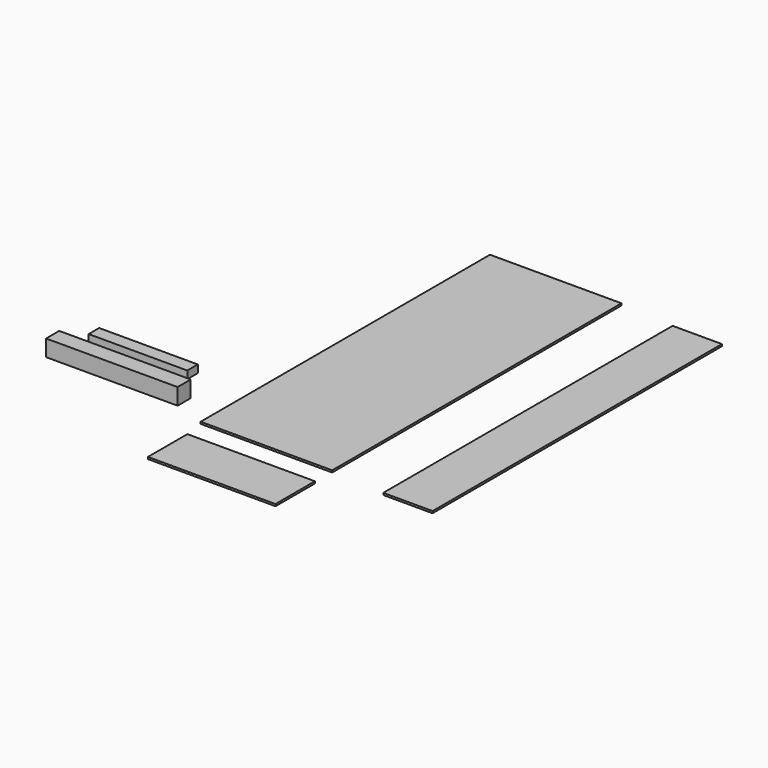
from build123d import *

# Parameters (mm, degrees)
F0_W     = 800
F0_H     = 2200
F2_DEPTH = 12
F1_W     = 300
F1_H     = 2200
F3_DEPTH = 12
F4_W     = 776
F4_H     = 300
F5_DEPTH = 12
F6_W     = 800
F6_H     = 100
F7_DEPTH = 100
F8_W     = 600
F8_H     = 80
F9_DEPTH = 47


with BuildPart() as f2:
    # F0 (on Top) → F2 (new body)
    with BuildSketch(Plane.XY):
        with Locations((-518.132778, 1021.973884)):
            Rectangle(F0_W, F0_H)
    extrude(amount=F2_DEPTH)


with BuildPart() as f3:
    # F1 (on Top) → F3 (new body)
    with BuildSketch(Plane.XY):
        with Locations((366.242298, 992.681062)):
            Rectangle(F1_W, F1_H)
    extrude(amount=F3_DEPTH)


with BuildPart() as f5:
    # F4 (on Top) → F5 (new body)
    with BuildSketch(Plane.XY):
        with Locations((-499.619242, -367.083466)):
            Rectangle(F4_W, F4_H)
    extrude(amount=F5_DEPTH)


with BuildPart() as f7:
    # F6 (on Top) → F7 (new body)
    with BuildSketch(Plane.XY):
        with Locations((-1520.702577, 50)):
            Rectangle(F6_W, F6_H)
    extrude(amount=F7_DEPTH)


with BuildPart() as f9:
    # F8 (on Top) → F9 (new body)
    with BuildSketch(Plane.XY):
        with Locations((-1554.830384, 281.19854)):
            Rectangle(F8_W, F8_H)
    extrude(amount=F9_DEPTH)


solid = Compound([f2.part, f3.part, f5.part, f7.part, f9.part])
